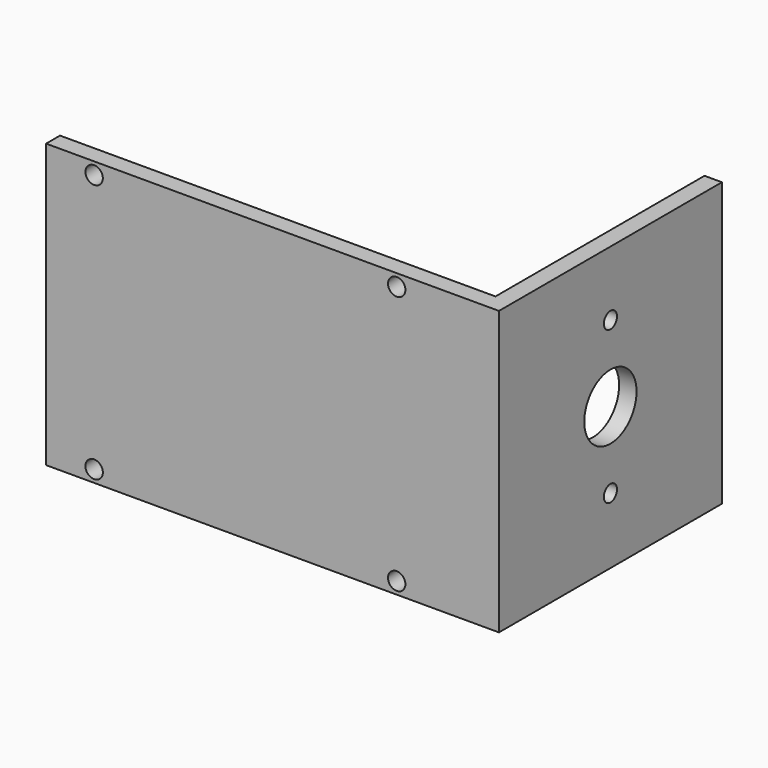
from build123d import *

# Parameters (mm, degrees)
F1_DEPTH = 82.55
F3_D     = 19.05
F4_D     = 4.7752
F5_D     = 4.7752
F7_D     = 5.08


with BuildPart() as f1:
    # F0 (on Top) → F1 (new body)
    with BuildSketch(Plane.XY):
        Polygon((58.022249, -51.505502), (-68.977751, -51.505502), (-68.977751, -56.585502), (63.102249, -56.585502), (63.102249, 24.694498), (58.022249, 24.694498), align=None)
    extrude(amount=F1_DEPTH)

    # F3 (through all)
    with Locations(Plane(origin=(58.022249, 0, 0), x_dir=(0, -1, 0), z_dir=(-1, 0, 0))):
        with Locations((15.955091, 41.455898)):
            Hole(F3_D / 2)

    # F4 (through all)
    with Locations(Plane(origin=(58.022249, 0, 0), x_dir=(0, -1, 0), z_dir=(-1, 0, 0))):
        with Locations((15.955091, 63.680898)):
            Hole(F4_D / 2)

    # F5 (through all)
    with Locations(Plane(origin=(58.022249, 0, 0), x_dir=(0, -1, 0), z_dir=(-1, 0, 0))):
        with Locations((15.955091, 19.230898)):
            Hole(F5_D / 2)

    # F7 (through all)
    with Locations(Plane(origin=(0, -51.505502, 0), x_dir=(-1, 0, 0), z_dir=(0, 1, 0))):
        with Locations((-33.277512, 79.039508), (54.963514, 79.039508), (54.963514, 3.499908), (-33.277512, 3.499908)):
            Hole(F7_D / 2)


solid = f1.part
